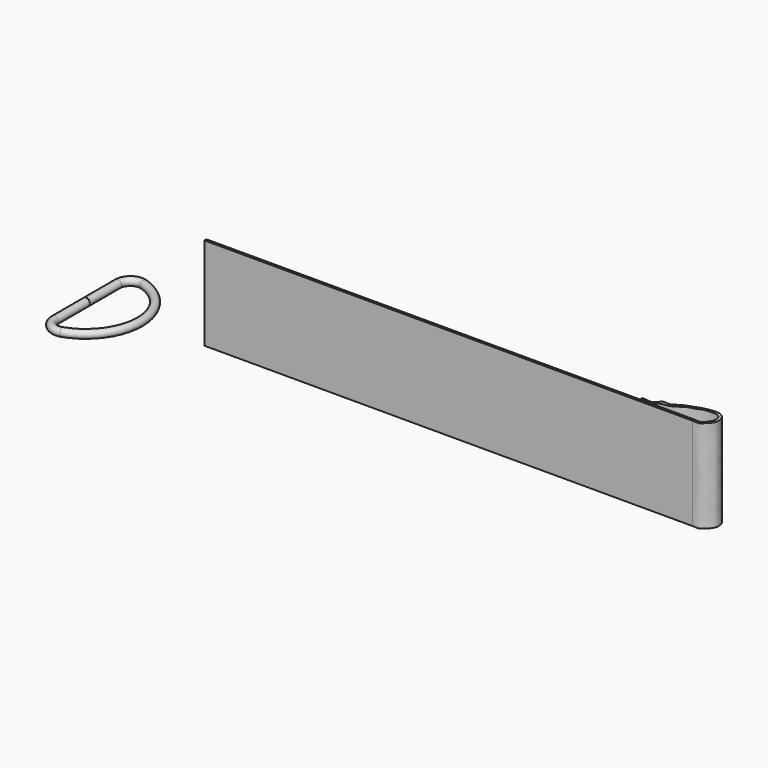
from build123d import *

# Parameters (mm, degrees)
F1_R     = 1.6
F4_DEPTH = 38


with BuildPart() as f2:
    # F2: sweep along a path in F0
    with BuildLine(Plane.XY) as f2_path:
        Line((-48.2730045915, 0), (-48.2730045915, 16.1207691055))
        ThreePointArc((-48.2730045915, 16.1207691055), (-46.1926279758, 20.1798083137), (-41.6826848739, 20.8611154215))
        ThreePointArc((-41.6826848739, 20.8611154215), (-26.6775082095, 0), (-41.6826848739, -20.8611154215))
        ThreePointArc((-41.6826848739, -20.8611154215), (-46.1926279758, -20.1798083137), (-48.2730045915, -16.1207691055))
        Line((-48.2730045915, -16.1207691055), (-48.2730045915, -0.1))
    # F1 (on Front) → F2 (sweep)
    with BuildSketch(Plane.XZ):
        with Locations((-48.4861321747, 0)):
            Circle(F1_R)
    sweep(path=f2_path.line)


with BuildPart() as f4:
    # F3 (on Top) → F4 (new body)
    with BuildSketch(Plane.XY):
        Polygon((-1.098e-07, 1), (0, 0), (200, 1.20407e-05), (199.9999998902, 1.0000120407), align=None)
        with BuildLine():
            Line((199.9999998902, 1.0000120407), (200, 1.20407e-05))
            add(Edge.make_bspline(
                [(200, 1.20407e-05), (200.9807500539, 0), (202.9433099818, -0.3642698073), (203.9655779118, 1.110624506), (206.6893671115, 3.1927477524), (206.5545501107, 7.3050818493), (204.1481371044, 9.5544578209), (200.9089222667, 9.5576256871), (197.7058334097, 9.0498090849), (194.622937995, 7.9624874947), (192.3563471907, 7.0906619697), (189.8462506244, 6.271760034), (187.2328948974, 3.7006243467), (184.0711106871, 5.2485833483), (182.4133113044, 1.3494301269), (179.467357579, 2.3350177184), (176.9932090107, 2.1291223361), (177.3997787065, 2.1628203615), (178.3059202682, 1.505690514)],
                knots=[0, 0, 0, 0, 0.0635463813, 0.1115766064, 0.179859177, 0.2528879414, 0.3182903008, 0.3850347549, 0.4543445015, 0.5228990494, 0.5819096202, 0.6438288897, 0.7133766788, 0.775630205, 0.8432702813, 0.9074353106, 0.9597137538, 1, 1, 1, 1], degree=3))
            add(Edge.make_bspline(
                [(199.9999998902, 1.0000120407), (200.9640615039, 0.9772382615), (202.9862364129, 0.4862296543), (203.966997157, 2.4654498486), (205.2951119505, 3.7695711126), (205.5047752093, 6.518146126), (203.8382725035, 8.3749963441), (201.1535520891, 8.498946131), (197.5837886015, 8.129214801), (195.7990707631, 6.9614775846), (192.126728694, 6.3157355194), (190.1405056258, 4.2652140086), (187.2467719869, 3.0425140897), (185.6568853555, 3.0757389512), (183.3320949813, 2.3026999363), (182.780407847, 0.8420474111), (178.1590316834, 1.5734307646), (178.3072946099, 1.5499213927), (178.3059202682, 1.505690514)],
                knots=[0, 0, 0, 0, 0.0697687155, 0.1264822363, 0.1835152683, 0.2495529024, 0.3113070072, 0.3791579858, 0.4572518025, 0.5188873141, 0.59705952, 0.6687073216, 0.7404424885, 0.794552434, 0.8560851292, 0.9076858126, 0.9912051602, 1, 1, 1, 1], degree=3))
        make_face()
    extrude(amount=F4_DEPTH)


solid = Compound([f2.part, f4.part])
